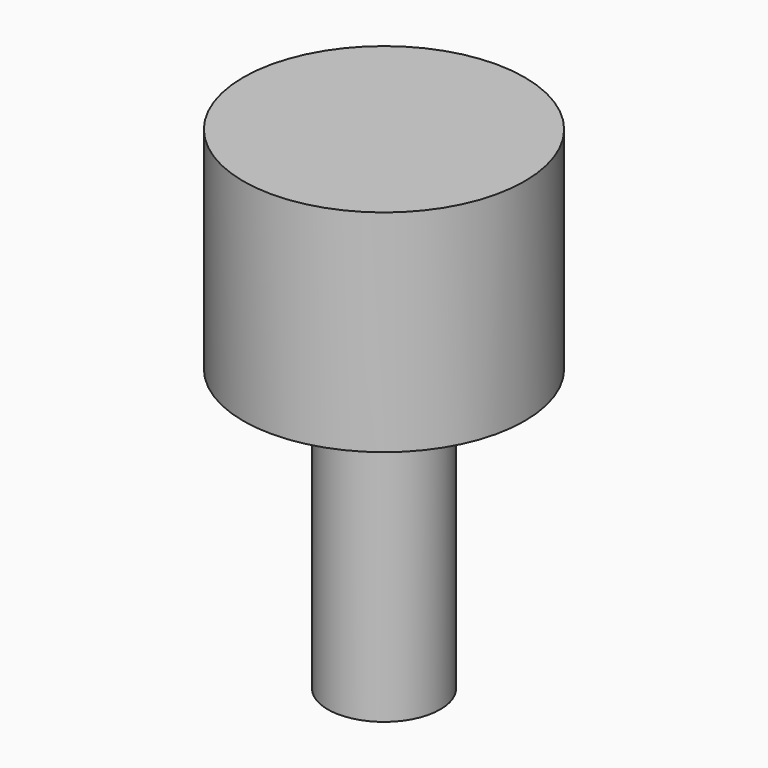
from build123d import *

# Parameters (mm, degrees)
F0_R      = 2
F1_DEPTH  = 10
F0_R_2    = 5
F1_FACE_R = 2
F2_DEPTH  = 7.5


with BuildPart() as f1:
    # F0 (on Top) → F1 (new body)
    with BuildSketch(Plane.XY):
        Circle(F0_R)
    extrude(amount=-F1_DEPTH)

    # F0 (on Top) + F1_face (on face) → F2 (join)
    with BuildSketch(Plane.XY):
        Circle(F0_R_2)
        Circle(F0_R, mode=Mode.SUBTRACT)
    with BuildSketch(Plane.XY):
        Circle(F1_FACE_R)
    extrude(amount=F2_DEPTH)


solid = f1.part
